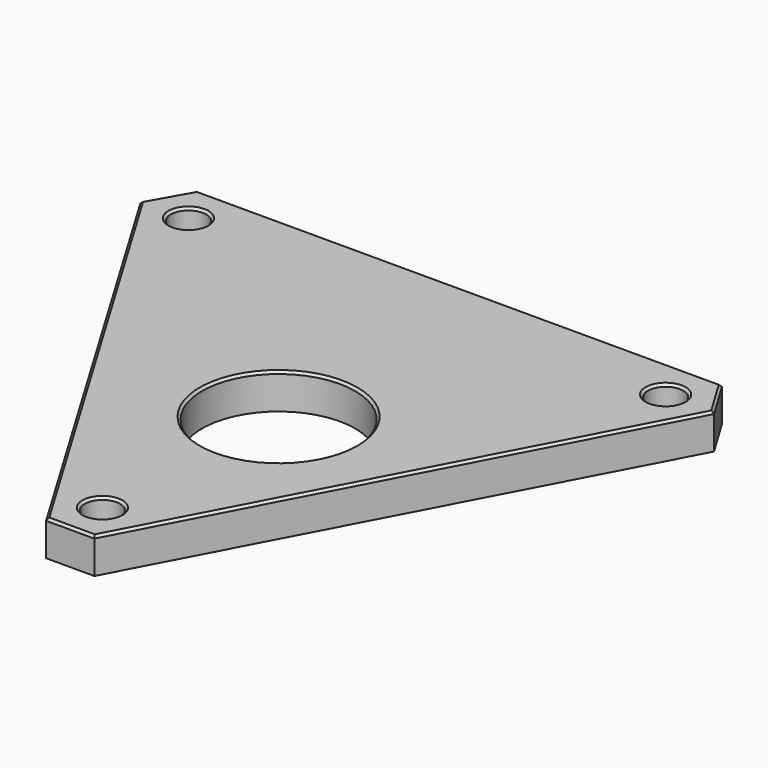
from build123d import *

# Parameters (mm, degrees)
F0_R     = 1.5
F0_R_2   = 6.5
F1_DEPTH = 3
F2_SIZE  = 0.2


with BuildPart() as f1:
    # F0 (on Top) → F1 (new body)
    with BuildSketch(Plane.XY):
        Polygon((-5.761886, -41.850388), (15.147641, -2.238909), (13.106366, 1.146824), (-31.408452, 1.146824), (-33.420278, -2.398261), (-9.855032, -41.850388), align=None)
        with Locations((-7.870373, -38.353176)):
            Circle(F0_R, mode=Mode.SUBTRACT)
        with Locations((-6.920373, -20.853176)):
            Circle(F0_R_2, mode=Mode.SUBTRACT)
        with Locations((-29.370373, -2.353176)):
            Circle(F0_R, mode=Mode.SUBTRACT)
        with Locations((11.129627, -2.353176)):
            Circle(F0_R, mode=Mode.SUBTRACT)
    extrude(amount=F1_DEPTH)

    # F2
    f2_edges = [f1.edges().sort_by_distance(p)[0] for p in [
        (-21.637655, -22.124324, 3),
        (-7.808459, -41.850388, 3),
        (4.692878, -22.044649, 3),
        (14.127004, -0.546043, 3),
        (-9.151043, 1.146824, 3),
        (-32.414365, -0.625718, 3),
        (-9.370373, -38.353176, 3),
        (-13.420373, -20.853176, 3),
        (-30.870373, -2.353176, 3),
        (9.629627, -2.353176, 3),
    ]]
    chamfer(f2_edges, length=F2_SIZE)


solid = f1.part
